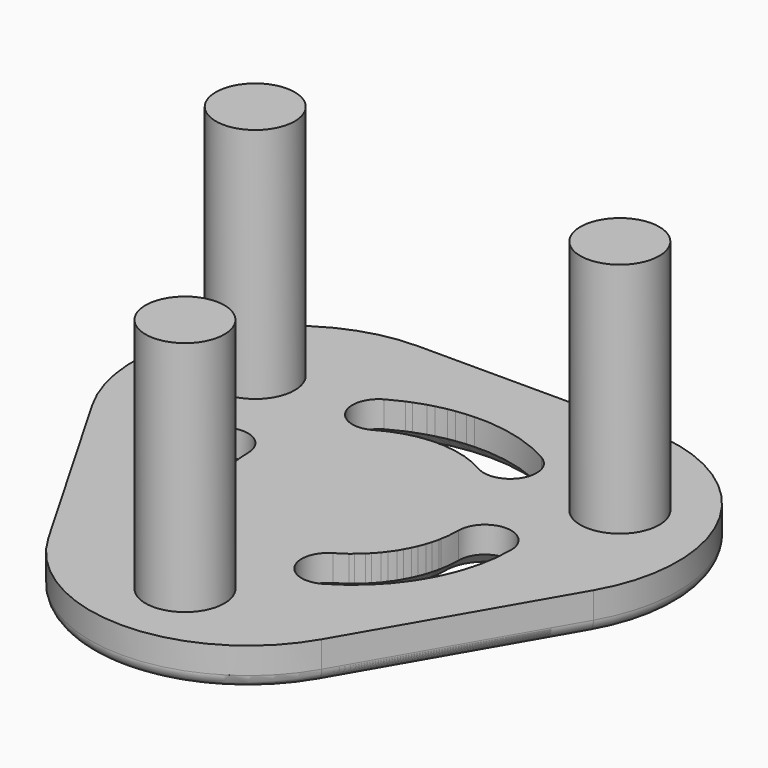
from build123d import *

# Parameters (mm, degrees)
PAD_DEPTH             = 30
POCKET_DEPTH          = 1167.961349
POLARPATTERN_COUNT    = 3
FILLET_R              = 10
CHAMFER_SIZE          = 10
SKETCH002_R           = 30
PAD001_DEPTH          = 180
POLARPATTERN001_COUNT = 3
POCKET001_DEPTH       = 210.001
PAD003_DEPTH          = 30
POCKET002_DEPTH       = 1167.961349
POLARPATTERN002_COUNT = 3
FILLET001_R           = 10
CHAMFER001_SIZE       = 10
SKETCH006_R           = 30
PAD002_DEPTH          = 180
POLARPATTERN003_COUNT = 3


with BuildPart() as body:
    # Sketch → Pad (new body)
    with BuildSketch(Plane.XY):
        with BuildLine():
            Line((190.525589, -10), (103.923048, -160))
            ThreePointArc((-103.923048, -160), (0, -220), (103.923048, -160))
            Line((-103.923048, -160), (-190.525589, -10))
            ThreePointArc((-86.60254, 170), (-190.525589, 110), (-190.525589, -10))
            Line((-86.60254, 170), (86.60254, 170))
            ThreePointArc((190.525589, -10), (190.525589, 110), (86.60254, 170))
        make_face()
    extrude(amount=PAD_DEPTH)

    # Sketch001 (on Face7 of Pad) → Pocket (cut, through all)
    with BuildSketch(Plane(origin=(0, 0, 0), x_dir=(1, 0, 0), z_dir=(0, 0, -1))):
        with BuildLine():
            ThreePointArc((-40, -69.282032), (0, -80), (40, -69.282032))
            ThreePointArc((60, -103.923048), (67.320508, -76.60254), (40, -69.282032))
            ThreePointArc((-60, -103.923048), (0, -120), (60, -103.923048))
            ThreePointArc((-40, -69.282032), (-67.320508, -76.60254), (-60, -103.923048))
        make_face()
    pocket = extrude(amount=-POCKET_DEPTH, mode=Mode.SUBTRACT)

    # PolarPattern: Pocket ×3 about axis
    polarpattern_axis = Axis((0, 0, 0), (0, 0, -1))
    for i in range(1, POLARPATTERN_COUNT):
        add(pocket.rotate(polarpattern_axis, i * 360 / POLARPATTERN_COUNT), mode=Mode.SUBTRACT)

    # Fillet
    fillet_edges = [body.edges().sort_by_distance(p)[0] for p in [
        (-190.525589, 110, 0),
        (0, -220, 0),
        (190.525589, 110, 0),
    ]]
    fillet(fillet_edges, radius=FILLET_R)

    # Chamfer
    chamfer_edges = [body.edges().sort_by_distance(p)[0] for p in [
        (69.282032, -40, 0),
        (103.923048, -60, 0),
        (0, 80, 0),
        (0, 120, 0),
        (-69.282032, -40, 0),
        (-103.923048, -60, 0),
    ]]
    chamfer(chamfer_edges, length=CHAMFER_SIZE)

    # Sketch002 (on Face38 of Chamfer) → Pad001 (join)
    with BuildSketch(Plane.XY.offset(30)):
        with Locations((0, -160)):
            Circle(SKETCH002_R)
    pad001 = extrude(amount=PAD001_DEPTH)

    # PolarPattern001: Pad001 ×3 about axis
    polarpattern001_axis = Axis((0, 0, 30), (0, 0, 1))
    for i in range(1, POLARPATTERN001_COUNT):
        add(pad001.rotate(polarpattern001_axis, i * 360 / POLARPATTERN001_COUNT))

    # Sketch003 (on Face1 of PolarPattern001) → Pocket001 (cut, through all)
    with BuildSketch(Plane(origin=(0, 0, 0), x_dir=(1, 0, 0), z_dir=(0, 0, -1))):
        Polygon((0, 0), (382.591034, 71.92334), (0, -354.096375), align=None)
    extrude(amount=-POCKET001_DEPTH, mode=Mode.SUBTRACT)


with BuildPart() as polarpattern003:
    # Sketch005 → Pad003 (new body)
    with BuildSketch(Plane.XY):
        with BuildLine():
            Line((190.525589, -10), (103.923048, -160))
            ThreePointArc((-103.923048, -160), (0, -220), (103.923048, -160))
            Line((-103.923048, -160), (-190.525589, -10))
            ThreePointArc((-86.60254, 170), (-190.525589, 110), (-190.525589, -10))
            Line((-86.60254, 170), (86.60254, 170))
            ThreePointArc((190.525589, -10), (190.525589, 110), (86.60254, 170))
        make_face()
    extrude(amount=PAD003_DEPTH)

    # Sketch004 (on Face7 of Pad003) → Pocket002 (cut, through all)
    with BuildSketch(Plane(origin=(0, 0, 0), x_dir=(1, 0, 0), z_dir=(0, 0, -1))):
        with BuildLine():
            ThreePointArc((-40, -69.282032), (0, -80), (40, -69.282032))
            ThreePointArc((60, -103.923048), (67.320508, -76.60254), (40, -69.282032))
            ThreePointArc((-60, -103.923048), (0, -120), (60, -103.923048))
            ThreePointArc((-40, -69.282032), (-67.320508, -76.60254), (-60, -103.923048))
        make_face()
    pocket002 = extrude(amount=-POCKET002_DEPTH, mode=Mode.SUBTRACT)

    # PolarPattern002: Pocket002 ×3 about axis
    polarpattern002_axis = Axis((0, 0, 0), (0, 0, -1))
    for i in range(1, POLARPATTERN002_COUNT):
        add(pocket002.rotate(polarpattern002_axis, i * 360 / POLARPATTERN002_COUNT), mode=Mode.SUBTRACT)

    # Fillet001
    fillet001_edges = [polarpattern003.edges().sort_by_distance(p)[0] for p in [
        (-190.525589, 110, 0),
        (0, -220, 0),
        (190.525589, 110, 0),
    ]]
    fillet(fillet001_edges, radius=FILLET001_R)

    # Chamfer001
    chamfer001_edges = [polarpattern003.edges().sort_by_distance(p)[0] for p in [
        (69.282032, -40, 0),
        (103.923048, -60, 0),
        (0, 80, 0),
        (0, 120, 0),
        (-69.282032, -40, 0),
        (-103.923048, -60, 0),
    ]]
    chamfer(chamfer001_edges, length=CHAMFER001_SIZE)

    # Sketch006 (on Face38 of Chamfer001) → Pad002 (new body)
    with BuildSketch(Plane.XY.offset(30)):
        with Locations((0, -160)):
            Circle(SKETCH006_R)
    pad002 = extrude(amount=PAD002_DEPTH)

    # PolarPattern003: Pad002 ×3 about axis
    polarpattern003_axis = Axis((0, 0, 30), (0, 0, 1))
    for i in range(1, POLARPATTERN003_COUNT):
        add(pad002.rotate(polarpattern003_axis, i * 360 / POLARPATTERN003_COUNT))


solid = Compound([body.part, polarpattern003.part])
